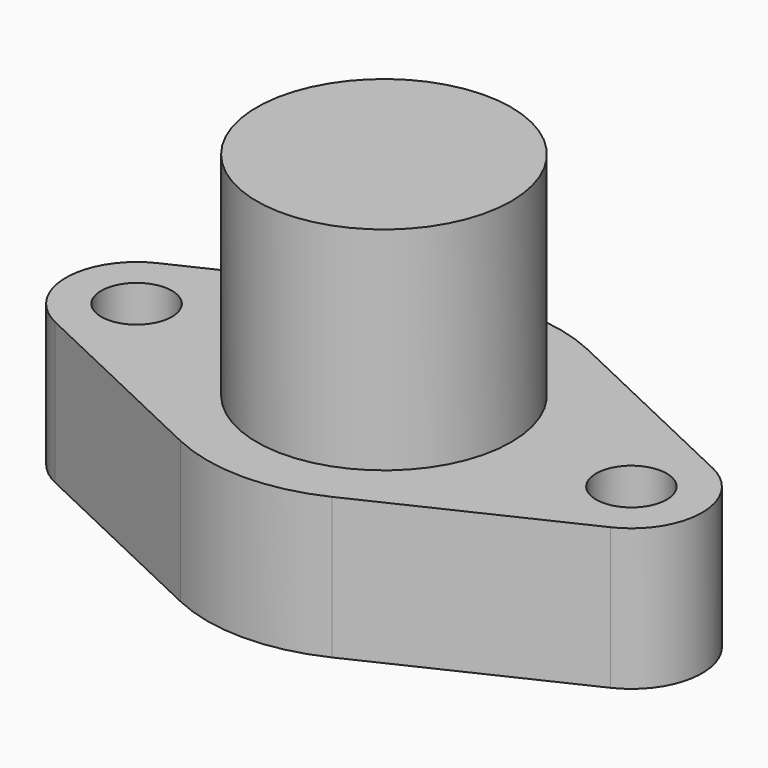
from build123d import *

# Parameters (mm, degrees)
F0_R     = 5
F0_R_2   = 18
F1_DEPTH = 20
F2_DEPTH = 50


with BuildPart() as f1:
    # F0 (on Top) → F1 (new body)
    with BuildSketch(Plane.XY):
        with BuildLine():
            Line((-10.714286, 22.587698), (-39.285714, 9.035079))
            ThreePointArc((-39.285714, 9.035079), (-45, 0), (-39.285714, -9.035079))
            Line((-39.285714, -9.035079), (-10.714286, -22.587698))
            ThreePointArc((-10.714286, -22.587698), (0, -25), (10.714286, -22.587698))
            Line((10.714286, -22.587698), (39.285714, -9.035079))
            ThreePointArc((39.285714, -9.035079), (45, 0), (39.285714, 9.035079))
            Line((39.285714, 9.035079), (10.714286, 22.587698))
            ThreePointArc((10.714286, 22.587698), (0, 25), (-10.714286, 22.587698))
        make_face()
        with Locations((-35, 0)):
            Circle(F0_R, mode=Mode.SUBTRACT)
        Circle(F0_R_2, mode=Mode.SUBTRACT)
        with Locations((35, 0)):
            Circle(F0_R, mode=Mode.SUBTRACT)
    extrude(amount=F1_DEPTH)

    # F0 (on Top) → F2 (join)
    with BuildSketch(Plane.XY):
        Circle(F0_R_2)
    extrude(amount=F2_DEPTH)


solid = f1.part
